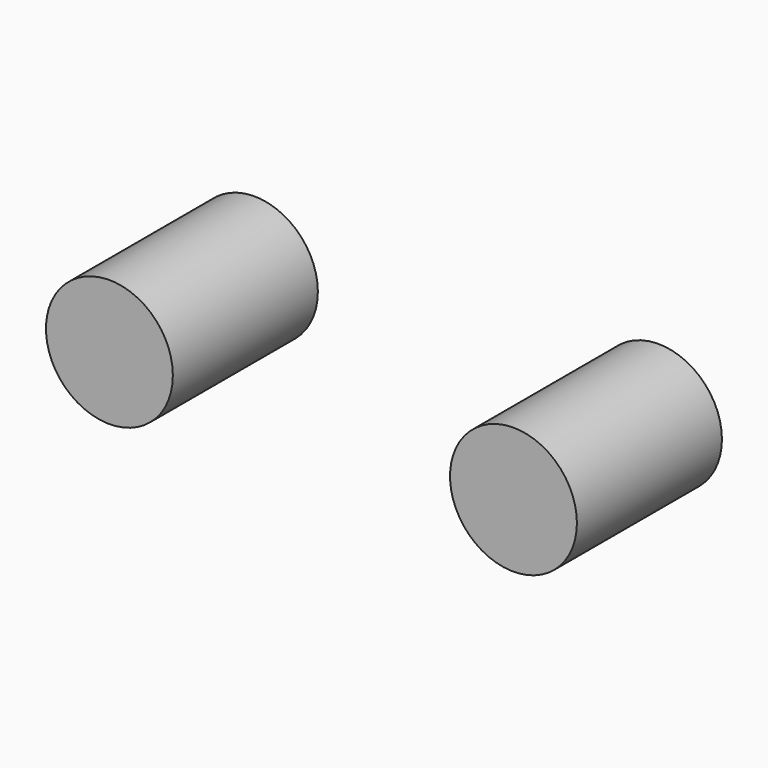
from build123d import *

# Parameters (mm, degrees)
F0_R     = 3.5
F1_DEPTH = 10
F2_R     = 1.5
F3_DEPTH = 0.01


with BuildPart() as f1:
    # F0 (on Front) → F1 (new body)
    with BuildSketch(Plane.XZ):
        with Locations((-10.979567, 0)):
            Circle(F0_R)
        with Locations((11.311573, 0.081834)):
            Circle(F0_R)
    extrude(amount=F1_DEPTH)


with BuildPart() as f3:
    # F2 (on Front) → F3 (new body)
    with BuildSketch(Plane.XZ):
        with Locations((-10.960588, 0)):
            Circle(F2_R)
        with Locations((11.236989, 0)):
            Circle(F2_R)
    extrude(amount=-F3_DEPTH)


solid = Compound([f1.part, f3.part])
